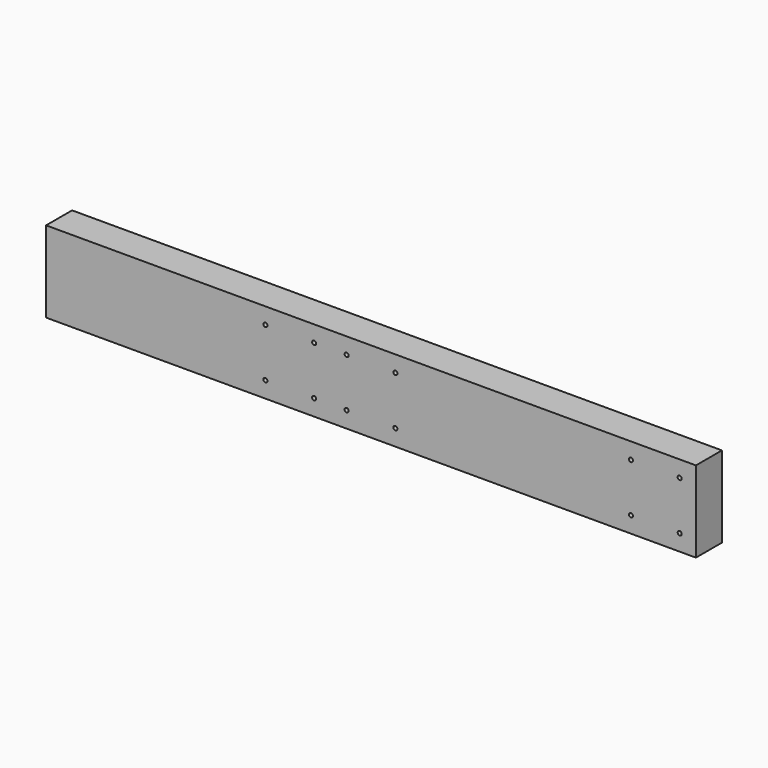
from build123d import *

# Parameters (mm, degrees)
F0_W     = 800
F0_H     = 100
F1_DEPTH = 20
F3_D     = 5


with BuildPart() as f1:
    # F0 (on Front) → F1 (new body, symmetric)
    with BuildSketch(Plane.XZ):
        Rectangle(F0_W, F0_H)
    extrude(amount=F1_DEPTH, both=True)

    # F3 (through all)
    with Locations(Plane.XZ.offset(20)):
        with Locations((320, 30), (380, 30), (320, -30), (380, -30), (-130, 30), (-70, 30), (-130, -30), (-70, -30), (-30, 30), (30, 30), (-30, -30), (30, -30)):
            Hole(F3_D / 2)


solid = f1.part
